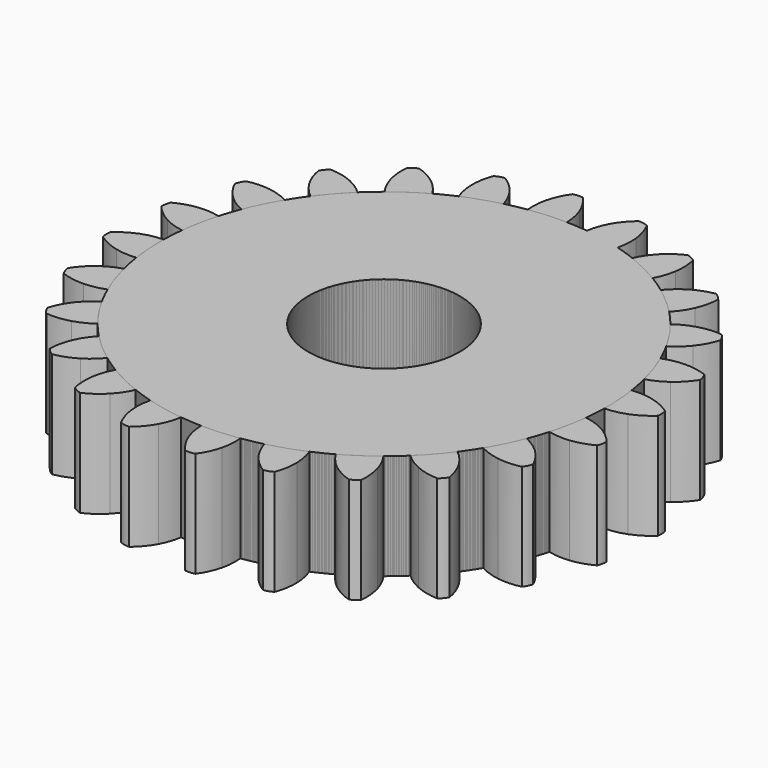
from build123d import *

# Parameters (mm, degrees)
F0_R     = 18.200698
F1_DEPTH = 12.7
F2_COUNT = 24


with BuildPart() as f1:
    # F0 (on Top) → F1 (new body, symmetric)
    with BuildSketch(Plane.XY):
        with BuildLine():
            ThreePointArc((-7.908881, 53.125641), (-34.986567, -40.708779), (53.787837, 0))
            ThreePointArc((53.787837, 0), (38.395854, 37.640833), (1.040035, 53.712184))
            ThreePointArc((1.040035, 53.712184), (-3.446684, 53.605979), (-7.908881, 53.125641))
        make_face()
        with Locations((0.066837, 0)):
            Circle(F0_R, mode=Mode.SUBTRACT)
        with BuildLine():
            ThreePointArc((-7.908881, 53.125641), (-3.446684, 53.605979), (1.040035, 53.712184))
            ThreePointArc((1.040035, 53.712184), (0.772506, 56.23606), (0.066837, 58.674))
            ThreePointArc((0.066837, 58.674), (-1.199603, 61.195227), (-2.922396, 63.429603))
            ThreePointArc((-2.922396, 63.429603), (-4.093684, 63.477288), (-5.248727, 63.277127))
            ThreePointArc((-5.248727, 63.277127), (-6.665137, 60.836996), (-7.591656, 58.172036))
            ThreePointArc((-7.591656, 58.172036), (-7.973073, 55.662844), (-7.908881, 53.125641))
        make_face()
    extrude(amount=F1_DEPTH, both=True)


with BuildPart() as f2_1:
    # F2: instance of F1
    add(f1.part.rotate(Axis((0.066837, 0, 0), (0, 0, 1)), 1 * 360 / F2_COUNT))


with BuildPart() as f2_2:
    # F2: instance of F1
    add(f1.part.rotate(Axis((0.066837, 0, 0), (0, 0, 1)), 2 * 360 / F2_COUNT))


with BuildPart() as f2_3:
    # F2: instance of F1
    add(f1.part.rotate(Axis((0.066837, 0, 0), (0, 0, 1)), 3 * 360 / F2_COUNT))


with BuildPart() as f2_4:
    # F2: instance of F1
    add(f1.part.rotate(Axis((0.066837, 0, 0), (0, 0, 1)), 4 * 360 / F2_COUNT))


with BuildPart() as f2_5:
    # F2: instance of F1
    add(f1.part.rotate(Axis((0.066837, 0, 0), (0, 0, 1)), 5 * 360 / F2_COUNT))


with BuildPart() as f2_6:
    # F2: instance of F1
    add(f1.part.rotate(Axis((0.066837, 0, 0), (0, 0, 1)), 6 * 360 / F2_COUNT))


with BuildPart() as f2_7:
    # F2: instance of F1
    add(f1.part.rotate(Axis((0.066837, 0, 0), (0, 0, 1)), 7 * 360 / F2_COUNT))


with BuildPart() as f2_8:
    # F2: instance of F1
    add(f1.part.rotate(Axis((0.066837, 0, 0), (0, 0, 1)), 8 * 360 / F2_COUNT))


with BuildPart() as f2_9:
    # F2: instance of F1
    add(f1.part.rotate(Axis((0.066837, 0, 0), (0, 0, 1)), 9 * 360 / F2_COUNT))


with BuildPart() as f2_10:
    # F2: instance of F1
    add(f1.part.rotate(Axis((0.066837, 0, 0), (0, 0, 1)), 10 * 360 / F2_COUNT))


with BuildPart() as f2_11:
    # F2: instance of F1
    add(f1.part.rotate(Axis((0.066837, 0, 0), (0, 0, 1)), 11 * 360 / F2_COUNT))


with BuildPart() as f2_12:
    # F2: instance of F1
    add(f1.part.rotate(Axis((0.066837, 0, 0), (0, 0, 1)), 12 * 360 / F2_COUNT))


with BuildPart() as f2_13:
    # F2: instance of F1
    add(f1.part.rotate(Axis((0.066837, 0, 0), (0, 0, 1)), 13 * 360 / F2_COUNT))


with BuildPart() as f2_14:
    # F2: instance of F1
    add(f1.part.rotate(Axis((0.066837, 0, 0), (0, 0, 1)), 14 * 360 / F2_COUNT))


with BuildPart() as f2_15:
    # F2: instance of F1
    add(f1.part.rotate(Axis((0.066837, 0, 0), (0, 0, 1)), 15 * 360 / F2_COUNT))


with BuildPart() as f2_16:
    # F2: instance of F1
    add(f1.part.rotate(Axis((0.066837, 0, 0), (0, 0, 1)), 16 * 360 / F2_COUNT))


with BuildPart() as f2_17:
    # F2: instance of F1
    add(f1.part.rotate(Axis((0.066837, 0, 0), (0, 0, 1)), 17 * 360 / F2_COUNT))


with BuildPart() as f2_18:
    # F2: instance of F1
    add(f1.part.rotate(Axis((0.066837, 0, 0), (0, 0, 1)), 18 * 360 / F2_COUNT))


with BuildPart() as f2_19:
    # F2: instance of F1
    add(f1.part.rotate(Axis((0.066837, 0, 0), (0, 0, 1)), 19 * 360 / F2_COUNT))


with BuildPart() as f2_20:
    # F2: instance of F1
    add(f1.part.rotate(Axis((0.066837, 0, 0), (0, 0, 1)), 20 * 360 / F2_COUNT))


with BuildPart() as f2_21:
    # F2: instance of F1
    add(f1.part.rotate(Axis((0.066837, 0, 0), (0, 0, 1)), 21 * 360 / F2_COUNT))


with BuildPart() as f2_22:
    # F2: instance of F1
    add(f1.part.rotate(Axis((0.066837, 0, 0), (0, 0, 1)), 22 * 360 / F2_COUNT))


with BuildPart() as f2_23:
    # F2: instance of F1
    add(f1.part.rotate(Axis((0.066837, 0, 0), (0, 0, 1)), 23 * 360 / F2_COUNT))


solid = Compound([f1.part, f2_1.part, f2_2.part, f2_3.part, f2_4.part, f2_5.part, f2_6.part, f2_7.part, f2_8.part, f2_9.part, f2_10.part, f2_11.part, f2_12.part, f2_13.part, f2_14.part, f2_15.part, f2_16.part, f2_17.part, f2_18.part, f2_19.part, f2_20.part, f2_21.part, f2_22.part, f2_23.part])
